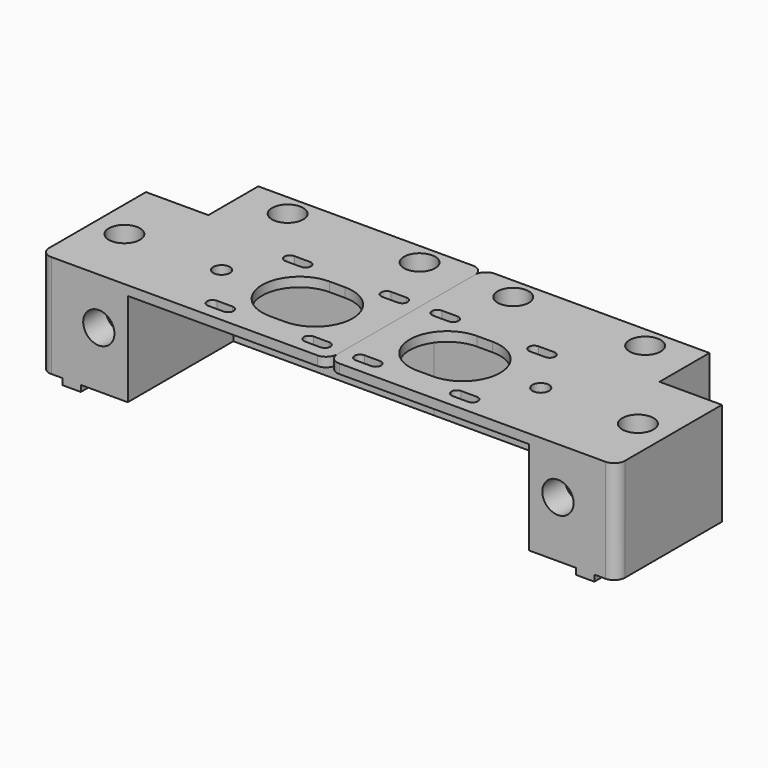
from build123d import *

# Parameters (mm, degrees)
F0_R      = 2.65
F0_W      = 42.3
F0_H      = 62.3
F0_R_2    = 12
F1_DEPTH  = 33
F2_R      = 5
F3_DEPTH  = 9
F4_W      = 64.3
F4_H      = 42.3
F5_DEPTH  = 30
F6_R      = 5
F7_DEPTH  = 29
F8_W      = 5.9
F8_H      = 42.3
F8_R      = 2.65
F8_W_2    = 72.3
F8_H_2    = 5.9
F9_DEPTH  = 2
F11_DEPTH = 35.001
F12_R     = 2.65
F13_DEPTH = 0.3
F14_R     = 3.5


with BuildPart() as f1:
    # F0 (on Top) → F1 (new body)
    with BuildSketch(Plane.XY):
        Polygon((8.85, 41.15), (-21.15, 41.15), (-21.15, 21.15), (-41.15, 21.15), (-41.15, -21.15), (8.85, -21.15), align=None)
        with Locations((-31.15, 0)):
            Circle(F0_R, mode=Mode.SUBTRACT)
        Circle(F0_R, mode=Mode.SUBTRACT)
        with Locations((-6.15, 34.15)):
            Circle(F0_R, mode=Mode.SUBTRACT)
        with Locations((30, 10)):
            Rectangle(F0_W, F0_H)
        with Locations((30, 0)):
            Circle(F0_R_2, mode=Mode.SUBTRACT)
        with Locations((36.15, 34.15)):
            Circle(F0_R, mode=Mode.SUBTRACT)
    extrude(amount=F1_DEPTH)

    # F2 (on face) → F3 (cut)
    with BuildSketch(Plane.XZ.offset(21.15)):
        with Locations((-22.425, 18)):
            Circle(F2_R)
    extrude(amount=-F3_DEPTH, mode=Mode.SUBTRACT)

    # F4 (on face) → F5 (cut)
    with BuildSketch(Plane.XY):
        with Locations((19, 0)):
            Rectangle(F4_W, F4_H)
    extrude(amount=F5_DEPTH, mode=Mode.SUBTRACT)

    # F6 (on face) → F7 (cut)
    with BuildSketch(Plane.XY.offset(33)):
        with Locations((-6.15, 34.15)):
            Circle(F6_R)
        with Locations((-31.15, 0)):
            Circle(F6_R)
        with Locations((36.15, 34.15)):
            Circle(F6_R)
    extrude(amount=-F7_DEPTH, mode=Mode.SUBTRACT)

    # F8 (on face) → F9 (join)
    with BuildSketch(Plane.XY):
        with Locations((-31.15, 0)):
            Rectangle(F8_W, F8_H)
        with Locations((-31.15, 0)):
            Circle(F8_R, mode=Mode.SUBTRACT)
        with Locations((15, 34.15)):
            Rectangle(F8_W_2, F8_H_2)
        with Locations((-6.15, 34.15)):
            Circle(F8_R, mode=Mode.SUBTRACT)
        with Locations((36.15, 34.15)):
            Circle(F8_R, mode=Mode.SUBTRACT)
    extrude(amount=-F9_DEPTH)

    # F10 (on face) → F11 (cut, through all)
    with BuildSketch(Plane.XY.offset(33)):
        with BuildLine():
            ThreePointArc((45.5, 13.75), (46.7374368671, 14.2625631329), (47.25, 15.5))
            ThreePointArc((47.25, 15.5), (46.7374368671, 16.7374368671), (45.5, 17.25))
            ThreePointArc((45.5, 17.25), (43.75, 15.5), (45.5, 13.75))
        make_face()
        with BuildLine():
            ThreePointArc((45.5, 13.75), (43.75, 15.5), (45.5, 17.25))
            Line((45.5, 17.25), (40.5, 17.25))
            ThreePointArc((40.5, 17.25), (41.7374368671, 16.7374368671), (42.25, 15.5))
            ThreePointArc((42.25, 15.5), (41.7374368671, 14.2625631329), (40.5, 13.75))
            Line((40.5, 13.75), (45.5, 13.75))
        make_face()
        with BuildLine():
            ThreePointArc((42.25, 15.5), (41.7374368671, 16.7374368671), (40.5, 17.25))
            ThreePointArc((40.5, 17.25), (38.75, 15.5), (40.5, 13.75))
            ThreePointArc((40.5, 13.75), (41.7374368671, 14.2625631329), (42.25, 15.5))
        make_face()
        with BuildLine():
            ThreePointArc((14.5, 13.75), (15.7374368671, 14.2625631329), (16.25, 15.5))
            ThreePointArc((16.25, 15.5), (15.7374368671, 16.7374368671), (14.5, 17.25))
            ThreePointArc((14.5, 17.25), (12.75, 15.5), (14.5, 13.75))
        make_face()
        with BuildLine():
            ThreePointArc((14.5, 13.75), (12.75, 15.5), (14.5, 17.25))
            Line((14.5, 17.25), (9.5, 17.25))
            ThreePointArc((9.5, 17.25), (10.7374368671, 16.7374368671), (11.25, 15.5))
            ThreePointArc((11.25, 15.5), (10.7374368671, 14.2625631329), (9.5, 13.75))
            Line((9.5, 13.75), (14.5, 13.75))
        make_face()
        with BuildLine():
            ThreePointArc((11.25, 15.5), (10.7374368671, 16.7374368671), (9.5, 17.25))
            ThreePointArc((9.5, 17.25), (7.75, 15.5), (9.5, 13.75))
            ThreePointArc((9.5, 13.75), (10.7374368671, 14.2625631329), (11.25, 15.5))
        make_face()
        with BuildLine():
            ThreePointArc((14.5, -17.25), (15.7374368671, -16.7374368671), (16.25, -15.5))
            ThreePointArc((16.25, -15.5), (15.7374368671, -14.2625631329), (14.5, -13.75))
            ThreePointArc((14.5, -13.75), (12.75, -15.5), (14.5, -17.25))
        make_face()
        with BuildLine():
            ThreePointArc((14.5, -17.25), (12.75, -15.5), (14.5, -13.75))
            Line((14.5, -13.75), (9.5, -13.75))
            ThreePointArc((9.5, -13.75), (10.7374368671, -14.2625631329), (11.25, -15.5))
            ThreePointArc((11.25, -15.5), (10.7374368671, -16.7374368671), (9.5, -17.25))
            Line((9.5, -17.25), (14.5, -17.25))
        make_face()
        with BuildLine():
            ThreePointArc((11.25, -15.5), (10.7374368671, -14.2625631329), (9.5, -13.75))
            ThreePointArc((9.5, -13.75), (7.75, -15.5), (9.5, -17.25))
            ThreePointArc((9.5, -17.25), (10.7374368671, -16.7374368671), (11.25, -15.5))
        make_face()
        with BuildLine():
            ThreePointArc((45.5, -17.25), (46.7374368671, -16.7374368671), (47.25, -15.5))
            ThreePointArc((47.25, -15.5), (46.7374368671, -14.2625631329), (45.5, -13.75))
            ThreePointArc((45.5, -13.75), (43.75, -15.5), (45.5, -17.25))
        make_face()
        with BuildLine():
            ThreePointArc((45.5, -17.25), (43.75, -15.5), (45.5, -13.75))
            Line((45.5, -13.75), (40.5, -13.75))
            ThreePointArc((40.5, -13.75), (41.7374368671, -14.2625631329), (42.25, -15.5))
            ThreePointArc((42.25, -15.5), (41.7374368671, -16.7374368671), (40.5, -17.25))
            Line((40.5, -17.25), (45.5, -17.25))
        make_face()
        with BuildLine():
            ThreePointArc((42.25, -15.5), (41.7374368671, -14.2625631329), (40.5, -13.75))
            ThreePointArc((40.5, -13.75), (38.75, -15.5), (40.5, -17.25))
            ThreePointArc((40.5, -17.25), (41.7374368671, -16.7374368671), (42.25, -15.5))
        make_face()
        with BuildLine():
            ThreePointArc((27.5, 11.7366945943), (26.2569138531, 11.9339921052), (25, 12))
            ThreePointArc((25, 12), (13, 0), (25, -12))
            ThreePointArc((25, -12), (26.2569138531, -11.9339921052), (27.5, -11.7366945943))
            ThreePointArc((27.5, -11.7366945943), (18, 0), (27.5, 11.7366945943))
        make_face()
        with BuildLine():
            Line((30, 12), (25, 12))
            ThreePointArc((25, 12), (26.2569138531, 11.9339921052), (27.5, 11.7366945943))
            ThreePointArc((27.5, 11.7366945943), (28.7430861469, 11.9339921052), (30, 12))
        make_face()
        with BuildLine():
            ThreePointArc((27.5, -11.7366945943), (26.2569138531, -11.9339921052), (25, -12))
            Line((25, -12), (30, -12))
            ThreePointArc((30, -12), (28.7430861469, -11.9339921052), (27.5, -11.7366945943))
        make_face()
        with BuildLine():
            ThreePointArc((30, 12), (28.7430861469, 11.9339921052), (27.5, 11.7366945943))
            ThreePointArc((27.5, 11.7366945943), (34.3273790531, 7.5498344353), (37, 0))
            ThreePointArc((37, 0), (34.3273790531, -7.5498344353), (27.5, -11.7366945943))
            ThreePointArc((27.5, -11.7366945943), (28.7430861469, -11.9339921052), (30, -12))
            ThreePointArc((30, -12), (38.4852813742, -8.4852813742), (42, 0))
            ThreePointArc((42, 0), (38.4852813742, 8.4852813742), (30, 12))
        make_face()
    extrude(amount=-F11_DEPTH, mode=Mode.SUBTRACT)

    # F12 (on face) → F13 (join)
    with BuildSketch(Plane.XY.offset(4)):
        with Locations((-31.15, 0)):
            Circle(F12_R)
        with Locations((-6.15, 34.15)):
            Circle(F12_R)
        with Locations((36.15, 34.15)):
            Circle(F12_R)
    extrude(amount=-F13_DEPTH)

    # F14
    f14_edges = [f1.edges().sort_by_distance(p)[0] for p in [
        (-41.15, -21.15, 16.5),
        (51.15, -21.15, 31.5),
        (51.15, 41.15, 16.5),
    ]]
    fillet(f14_edges, radius=F14_R)


with BuildPart() as f15_1:
    # F15: instance of F1
    add(f1.part.mirror(Plane(origin=(51.15, 24.6989296863, 18.7885387245), x_dir=(0, 1, 0), z_dir=(1, 0, 0))))


solid = Compound([f1.part, f15_1.part])
